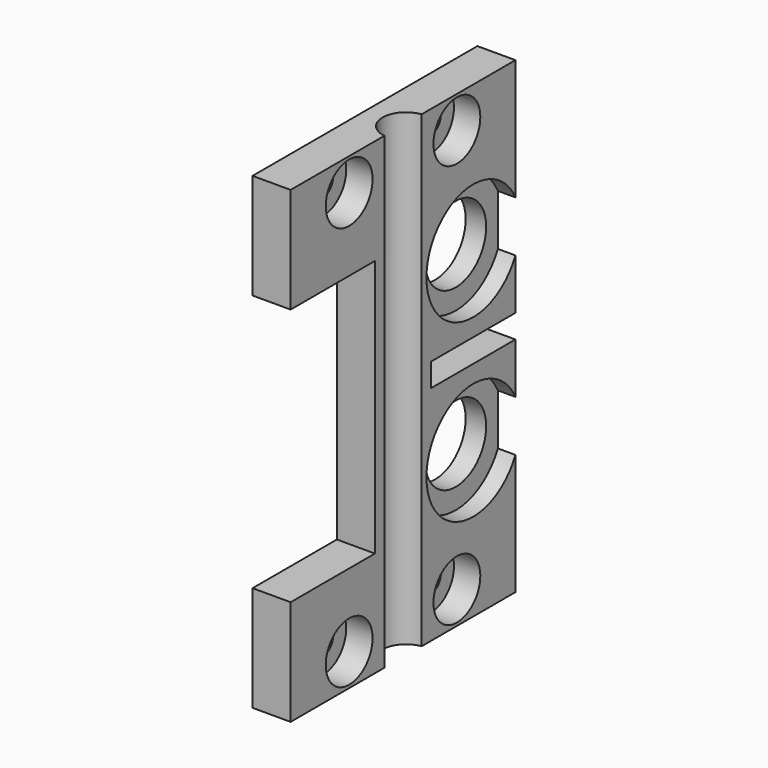
from build123d import *

# Parameters (mm, degrees)
CYLINDER028_R           = 1.1
CYLINDER028_DEPTH       = 10
CYLINDER031_R           = 0.9
CYLINDER031_DEPTH       = 10
CYLINDER029_R           = 2.5
CYLINDER029_DEPTH       = 3.5
CYLINDER030_R           = 2
CYLINDER030_DEPTH       = 5.2
LINK011_PLACEMENT_ANGLE = 90
LINK012_PLACEMENT_ANGLE = 90
CYLINDER027_R           = 1.1
CYLINDER027_DEPTH       = 10
CYLINDER025_R           = 1.1
CYLINDER025_DEPTH       = 10
CYLINDER026_R           = 1.1
CYLINDER026_DEPTH       = 10
LINK010_PLACEMENT_ANGLE = 90
LINK009_PLACEMENT_ANGLE = 90
CYLINDER018_R           = 3.25
CYLINDER018_DEPTH       = 10
BOX010_W                = 3.25
BOX010_H                = 9
BOX010_DEPTH            = 22
BOX009_W                = 3.25
BOX009_H                = 9
BOX009_DEPTH            = 2
CYLINDER024_R           = 5
CYLINDER024_DEPTH       = 1.5
CYLINDER023_R           = 5
CYLINDER023_DEPTH       = 1.5
CYLINDER019_R           = 3.25
CYLINDER019_DEPTH       = 10
CYLINDER004_R           = 2
CYLINDER004_DEPTH       = 40
BOX004_W                = 3.25
BOX004_H                = 24
BOX004_DEPTH            = 40


with BuildPart() as cylinder028:
    # Cylinder028 → Cylinder028 (new body)
    with BuildSketch(Plane(origin=(-3.5, 5.75, 44.25), x_dir=(0, 0, -1), z_dir=(1, 0, 0))):
        Circle(CYLINDER028_R)
    extrude(amount=CYLINDER028_DEPTH)


with BuildPart() as cylinder031:
    # Cylinder031 → Cylinder031 (new body)
    with BuildSketch(Plane.XY):
        Circle(CYLINDER031_R)
    extrude(amount=CYLINDER031_DEPTH)


with BuildPart() as cylinder029:
    # Cylinder029 → Cylinder029 (new body)
    with BuildSketch(Plane.XY):
        Circle(CYLINDER029_R)
    extrude(amount=CYLINDER029_DEPTH)


with BuildPart() as obj1:
    # Cylinder030 → Cylinder030 (new body)
    with BuildSketch(Plane.XY):
        Circle(CYLINDER030_R)
    extrude(amount=CYLINDER030_DEPTH)

    # Fusion018: union Cylinder029
    add(cylinder029.part)

    # Cut007: cut Cylinder031
    add(cylinder031.part, mode=Mode.SUBTRACT)


with BuildPart() as obj2:
    # Link011 base: copy of obj1
    add(obj1.part)


with BuildPart() as obj2_1:
    # Link011 placement: moved
    add(obj2.part.moved(Location((-2.5, -5.75, 44.25))).rotate(Axis((-2.5, -5.75, 44.25), (0, 1, 0)), LINK011_PLACEMENT_ANGLE))


with BuildPart() as obj3:
    # Link012 base: copy of obj1
    add(obj1.part)


with BuildPart() as obj3_1:
    # Link012 placement: moved
    add(obj3.part.moved(Location((-2.5, 5.75, 44.25))).rotate(Axis((-2.5, 5.75, 44.25), (0, 1, 0)), LINK012_PLACEMENT_ANGLE))


with BuildPart() as fusion017:
    # Cylinder027 → Cylinder027 (new body)
    with BuildSketch(Plane(origin=(-3.5, -5.75, 44.25), x_dir=(0, 0, -1), z_dir=(1, 0, 0))):
        Circle(CYLINDER027_R)
    extrude(amount=CYLINDER027_DEPTH)

    # Fusion017: union Cylinder028, obj2, obj3
    add(cylinder028.part)
    add(obj2_1.part)
    add(obj3_1.part)


with BuildPart() as cylinder025:
    # Cylinder025 → Cylinder025 (new body)
    with BuildSketch(Plane(origin=(-3.5, -5.75, 9.75), x_dir=(0, 0, -1), z_dir=(1, 0, 0))):
        Circle(CYLINDER025_R)
    extrude(amount=CYLINDER025_DEPTH)


with BuildPart() as cylinder026:
    # Cylinder026 → Cylinder026 (new body)
    with BuildSketch(Plane(origin=(-3.5, 5.75, 9.75), x_dir=(0, 0, -1), z_dir=(1, 0, 0))):
        Circle(CYLINDER026_R)
    extrude(amount=CYLINDER026_DEPTH)


with BuildPart() as obj4:
    # Link010 base: copy of obj1
    add(obj1.part)


with BuildPart() as obj4_1:
    # Link010 placement: moved
    add(obj4.part.moved(Location((-2.5, 5.75, 9.75))).rotate(Axis((-2.5, 5.75, 9.75), (0, 1, 0)), LINK010_PLACEMENT_ANGLE))


with BuildPart() as fusion019:
    # Link009 base: copy of obj1
    add(obj1.part)


with BuildPart() as fusion019_1:
    # Link009 placement: moved
    add(fusion019.part.moved(Location((-2.5, -5.75, 9.75))).rotate(Axis((-2.5, -5.75, 9.75), (0, 1, 0)), LINK009_PLACEMENT_ANGLE))

    # Fusion016: union Cylinder025, Cylinder026, obj4
    add(cylinder025.part)
    add(cylinder026.part)
    add(obj4_1.part)

    # Fusion019: union Fusion017
    add(fusion017.part)


with BuildPart() as cylinder018:
    # Cylinder018 → Cylinder018 (new body)
    with BuildSketch(Plane(origin=(-3.5, 7.5, 34.5), x_dir=(0, 0, -1), z_dir=(1, 0, 0))):
        Circle(CYLINDER018_R)
    extrude(amount=CYLINDER018_DEPTH)


with BuildPart() as cube010:
    # Box010 → Box010 (new body)
    with BuildSketch(Plane(origin=(-3.5, -12, 16), x_dir=(1, 0, 0), z_dir=(0, 0, 1))):
        with Locations((1.625, 4.5)):
            Rectangle(BOX010_W, BOX010_H)
    extrude(amount=BOX010_DEPTH)


with BuildPart() as cube009:
    # Box009 → Box009 (new body)
    with BuildSketch(Plane(origin=(-3.5, 3, 26), x_dir=(1, 0, 0), z_dir=(0, 0, 1))):
        with Locations((1.625, 4.5)):
            Rectangle(BOX009_W, BOX009_H)
    extrude(amount=BOX009_DEPTH)


with BuildPart() as cylinder024:
    # Cylinder024 → Cylinder024 (new body)
    with BuildSketch(Plane(origin=(-1.75, 7.5, 19.5), x_dir=(0, 0, -1), z_dir=(1, 0, 0))):
        Circle(CYLINDER024_R)
    extrude(amount=CYLINDER024_DEPTH)


with BuildPart() as fusion015:
    # Cylinder023 → Cylinder023 (new body)
    with BuildSketch(Plane(origin=(-1.75, 7.5, 34.5), x_dir=(0, 0, -1), z_dir=(1, 0, 0))):
        Circle(CYLINDER023_R)
    extrude(amount=CYLINDER023_DEPTH)

    # Fusion015: union Cylinder024
    add(cylinder024.part)


with BuildPart() as fusion011:
    # Cylinder019 → Cylinder019 (new body)
    with BuildSketch(Plane(origin=(-3.5, 7.5, 19.5), x_dir=(0, 0, -1), z_dir=(1, 0, 0))):
        Circle(CYLINDER019_R)
    extrude(amount=CYLINDER019_DEPTH)

    # Fusion011: union Cylinder018, Cube010, Cube009, Fusion015
    add(cylinder018.part)
    add(cube010.part)
    add(cube009.part)
    add(fusion015.part)


with BuildPart() as beamhole:
    # Cylinder004 → Cylinder004 (new body)
    with BuildSketch(Plane.XY):
        Circle(CYLINDER004_R)
    extrude(amount=CYLINDER004_DEPTH)


with BuildPart() as obj5:
    # Box004 → Box004 (new body)
    with BuildSketch(Plane(origin=(-3.5, -12, 0), x_dir=(1, 0, 0), z_dir=(0, 0, 1))):
        with Locations((1.625, 12)):
            Rectangle(BOX004_W, BOX004_H)
    extrude(amount=BOX004_DEPTH)

    # Cut001: cut Beamhole
    add(beamhole.part, mode=Mode.SUBTRACT)


with BuildPart() as obj5_1:
    # Cut001 placement: moved
    add(obj5.part.moved(Location((0, 0, 7))))

    # Cut005: cut Fusion011
    add(fusion011.part, mode=Mode.SUBTRACT)

    # Cut008: cut Fusion019
    add(fusion019_1.part, mode=Mode.SUBTRACT)


with BuildPart() as obj5_2:
    # Cut008 placement: moved
    add(obj5_1.part.moved(Location((0, 0, 1))))


solid = obj5_2.part
